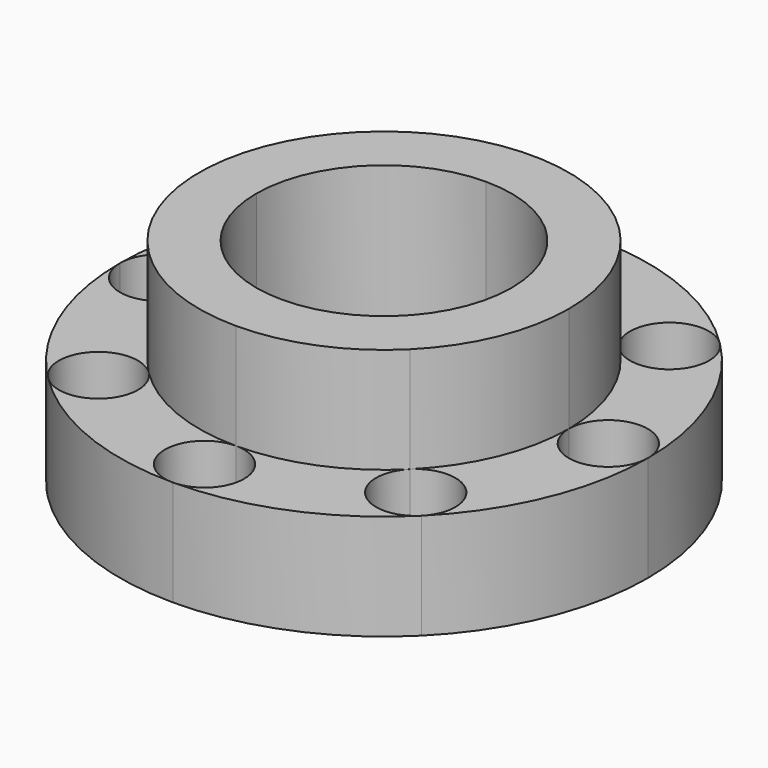
from build123d import *

# Parameters (mm, degrees)
F1_DEPTH = 25.4
F2_DEPTH = 50.8
F3_DEPTH = 2.54


with BuildPart() as f1:
    # F0 (on Top) → F1 (new body)
    with BuildSketch(Plane.XY):
        with BuildLine():
            ThreePointArc((63.5, 0), (53.975, -9.525), (44.45, 0))
            ThreePointArc((44.45, 0), (41.0664451818, -17.0102786611), (31.4308962821, -31.4308965654))
            ThreePointArc((31.4308962821, -31.4308965654), (41.8111481153, -29.3661359291), (47.6910885145, -38.1660885145))
            ThreePointArc((47.6910885145, -38.1660885145), (46.9660410736, -41.8111481791), (44.9012806494, -44.9012805613))
            ThreePointArc((44.9012806494, -44.9012805613), (58.6663503264, -24.3003979264), (63.5, 0))
        make_face()
    extrude(amount=F1_DEPTH)


with BuildPart() as f1b:
    # F0 (on Top) → F1, piece 2 (new body)
    with BuildSketch(Plane.XY):
        with BuildLine():
            ThreePointArc((44.9012806494, -44.9012805613), (31.4308965166, -44.9012806982), (31.4308962821, -31.4308965654))
            ThreePointArc((31.4308962821, -31.4308965654), (17.0102784761, -41.0664452584), (0, -44.45))
            ThreePointArc((0, -44.45), (6.7351920908, -47.2398079092), (9.525, -53.975))
            ThreePointArc((9.525, -53.975), (6.7351920871, -60.7101920945), (-1.06e-08, -63.5))
            ThreePointArc((-1.06e-08, -63.5), (24.3003979791, -58.6663503046), (44.9012806494, -44.9012805613))
        make_face()
    extrude(amount=F1_DEPTH)


with BuildPart() as f1c:
    # F0 (on Top) → F1, piece 3 (new body)
    with BuildSketch(Plane.XY):
        with BuildLine():
            ThreePointArc((-1.06e-08, -63.5), (-9.525, -53.9749999947), (0, -44.45))
            ThreePointArc((0, -44.45), (-17.0102785686, -41.0664452201), (-31.4308964237, -31.4308964237))
            ThreePointArc((-31.4308964237, -31.4308964237), (-29.3661359674, -34.5210288213), (-28.6410885145, -38.1660885145))
            ThreePointArc((-28.6410885145, -38.1660885145), (-34.5210288767, -46.9660410847), (-44.9012806902, -44.9012805205))
            ThreePointArc((-44.9012806902, -44.9012805205), (-24.3003980155, -58.6663502895), (-1.06e-08, -63.5))
        make_face()
    extrude(amount=F1_DEPTH)


with BuildPart() as f1d:
    # F0 (on Top) → F1, piece 4 (new body)
    with BuildSketch(Plane.XY):
        with BuildLine():
            ThreePointArc((-44.9012806902, -44.9012805205), (-44.9012805629, -31.4308963813), (-31.4308964237, -31.4308964237))
            ThreePointArc((-31.4308964237, -31.4308964237), (-41.0664452201, -17.0102785686), (-44.45, 0))
            ThreePointArc((-44.45, 0), (-53.9749999922, -9.525), (-63.5, -1.56e-08))
            ThreePointArc((-63.5, -1.56e-08), (-59.3218826508, -22.653128675), (-47.337346821, -42.3252359232))
            ThreePointArc((-47.337346821, -42.3252359232), (-46.1372962225, -43.6302635481), (-44.9012806902, -44.9012805205))
        make_face()
    extrude(amount=F1_DEPTH)


with BuildPart() as f1e:
    # F0 (on Top) → F1, piece 5 (new body)
    with BuildSketch(Plane.XY):
        with BuildLine():
            ThreePointArc((-44.45, 0), (-41.0664452333, 17.0102785369), (-31.4308964724, 31.4308963751))
            ThreePointArc((-31.4308964724, 31.4308963751), (-44.9012806825, 31.4308965009), (-44.9012804996, 44.9012807111))
            ThreePointArc((-44.9012804996, 44.9012807111), (-58.6663502888, 24.3003980171), (-63.5, -1.56e-08))
            ThreePointArc((-63.5, -1.56e-08), (-53.9750000078, 9.525), (-44.45, 0))
        make_face()
    extrude(amount=F1_DEPTH)


with BuildPart() as f1f:
    # F0 (on Top) → F1, piece 6 (new body)
    with BuildSketch(Plane.XY):
        with BuildLine():
            ThreePointArc((31.4308964405, 31.430896407), (41.0664452246, 17.0102785577), (44.45, 0))
            ThreePointArc((44.45, 0), (53.975, 9.525), (63.5, 0))
            ThreePointArc((63.5, 0), (58.6663503145, 24.3003979552), (44.9012806053, 44.9012806053))
            ThreePointArc((44.9012806053, 44.9012806053), (46.9660410617, 41.8111482078), (47.6910885145, 38.1660885145))
            ThreePointArc((47.6910885145, 38.1660885145), (41.8111482187, 29.3661359719), (31.4308964405, 31.430896407))
        make_face()
    extrude(amount=F1_DEPTH)


with BuildPart() as f1g:
    # F0 (on Top) → F1, piece 7 (new body)
    with BuildSketch(Plane.XY):
        with BuildLine():
            ThreePointArc((0, 44.45), (17.0102785795, 41.0664452156), (31.4308964405, 31.430896407))
            ThreePointArc((31.4308964405, 31.430896407), (31.4308964154, 44.901280597), (44.9012806053, 44.9012806053))
            ThreePointArc((44.9012806053, 44.9012806053), (24.3003980186, 58.6663502882), (1.372e-07, 63.5))
            ThreePointArc((1.372e-07, 63.5), (6.7351921393, 60.7101920423), (9.525, 53.975))
            ThreePointArc((9.525, 53.975), (6.7351920908, 47.2398079092), (0, 44.45))
        make_face()
    extrude(amount=F1_DEPTH)


with BuildPart() as f1h:
    # F0 (on Top) → F1, piece 8 (new body)
    with BuildSketch(Plane.XY):
        with BuildLine():
            ThreePointArc((-31.4308964724, 31.4308963751), (-17.0102786004, 41.066445207), (0, 44.45))
            ThreePointArc((0, 44.45), (-9.525, 53.9750000686), (1.372e-07, 63.5))
            ThreePointArc((1.372e-07, 63.5), (-24.3003978227, 58.6663503693), (-44.9012804996, 44.9012807111))
            ThreePointArc((-44.9012804996, 44.9012807111), (-34.5210287522, 46.9660410331), (-28.6410885145, 38.1660885145))
            ThreePointArc((-28.6410885145, 38.1660885145), (-29.3661359805, 34.5210287895), (-31.4308964724, 31.4308963751))
        make_face()
    extrude(amount=F1_DEPTH)


with BuildPart() as f2:
    # F0 (on Top) → F2 (new body)
    with BuildSketch(Plane.XY):
        with BuildLine():
            ThreePointArc((-44.45, 0), (-41.0664452201, -17.0102785686), (-31.4308964237, -31.4308964237))
            Line((-31.4308964237, -31.4308964237), (-21.7152558542, -21.7152558542))
            ThreePointArc((-21.7152558542, -21.7152558542), (-28.3723490719, -11.7522117819), (-30.7100093394, 0))
            Line((-30.7100093394, 0), (-44.45, 0))
        make_face()
        with BuildLine():
            Line((0, 30.7100093394), (0, 44.45))
            ThreePointArc((0, 44.45), (-17.0102786004, 41.066445207), (-31.4308964724, 31.4308963751))
            ThreePointArc((-31.4308964724, 31.4308963751), (-41.0664452333, 17.0102785369), (-44.45, 0))
            Line((-44.45, 0), (-30.7100093394, 0))
            ThreePointArc((-30.7100093394, 0), (-21.7152558542, 21.7152558542), (0, 30.7100093394))
        make_face()
        with BuildLine():
            Line((30.7100093394, 0), (44.45, 0))
            ThreePointArc((44.45, 0), (41.0664452246, 17.0102785577), (31.4308964405, 31.430896407))
            ThreePointArc((31.4308964405, 31.430896407), (17.0102785795, 41.0664452156), (0, 44.45))
            Line((0, 44.45), (0, 30.7100093394))
            ThreePointArc((0, 30.7100093394), (21.7152558542, 21.7152558542), (30.7100093394, 0))
        make_face()
        with BuildLine():
            ThreePointArc((31.4308962821, -31.4308965654), (41.0664451818, -17.0102786611), (44.45, 0))
            Line((44.45, 0), (30.7100093394, 0))
            ThreePointArc((30.7100093394, 0), (21.7152558542, -21.7152558542), (0, -30.7100093394))
            Line((0, -30.7100093394), (0, -44.45))
            ThreePointArc((0, -44.45), (17.0102784761, -41.0664452584), (31.4308962821, -31.4308965654))
        make_face()
        with BuildLine():
            ThreePointArc((-44.45, 0), (-41.0664452201, -17.0102785686), (-31.4308964237, -31.4308964237))
            Line((-31.4308964237, -31.4308964237), (-21.7152558542, -21.7152558542))
            ThreePointArc((-21.7152558542, -21.7152558542), (-28.3723490719, -11.7522117819), (-30.7100093394, 0))
            Line((-30.7100093394, 0), (-44.45, 0))
        make_face()
        with BuildLine():
            ThreePointArc((-31.4308964237, -31.4308964237), (-17.0102785686, -41.0664452201), (0, -44.45))
            Line((0, -44.45), (0, -30.7100093394))
            ThreePointArc((0, -30.7100093394), (-11.7522117819, -28.3723490719), (-21.7152558542, -21.7152558542))
            Line((-21.7152558542, -21.7152558542), (-31.4308964237, -31.4308964237))
        make_face()
    extrude(amount=F2_DEPTH)

    # F0 (on Top) → F3 (join)
    with BuildSketch(Plane.XY):
        with BuildLine():
            Line((0, 0), (30.7100093394, 0))
            ThreePointArc((30.7100093394, 0), (21.7152558542, 21.7152558542), (0, 30.7100093394))
            Line((0, 30.7100093394), (0, 0))
        make_face()
        with BuildLine():
            ThreePointArc((0, -30.7100093394), (21.7152558542, -21.7152558542), (30.7100093394, 0))
            Line((30.7100093394, 0), (0, 0))
            Line((0, 0), (0, -30.7100093394))
        make_face()
        with BuildLine():
            ThreePointArc((-21.7152558542, -21.7152558542), (-11.7522117819, -28.3723490719), (0, -30.7100093394))
            Line((0, -30.7100093394), (0, 0))
            Line((0, 0), (-21.7152558542, -21.7152558542))
        make_face()
        with BuildLine():
            Line((-21.7152558542, -21.7152558542), (0, 0))
            Line((0, 0), (-30.7100093394, 0))
            ThreePointArc((-30.7100093394, 0), (-28.3723490719, -11.7522117819), (-21.7152558542, -21.7152558542))
        make_face()
        with BuildLine():
            Line((0, 0), (0, 30.7100093394))
            ThreePointArc((0, 30.7100093394), (-21.7152558542, 21.7152558542), (-30.7100093394, 0))
            Line((-30.7100093394, 0), (0, 0))
        make_face()
    extrude(amount=F3_DEPTH)


solid = Compound([f1.part, f1b.part, f1c.part, f1d.part, f1e.part, f1f.part, f1g.part, f1h.part, f2.part])
